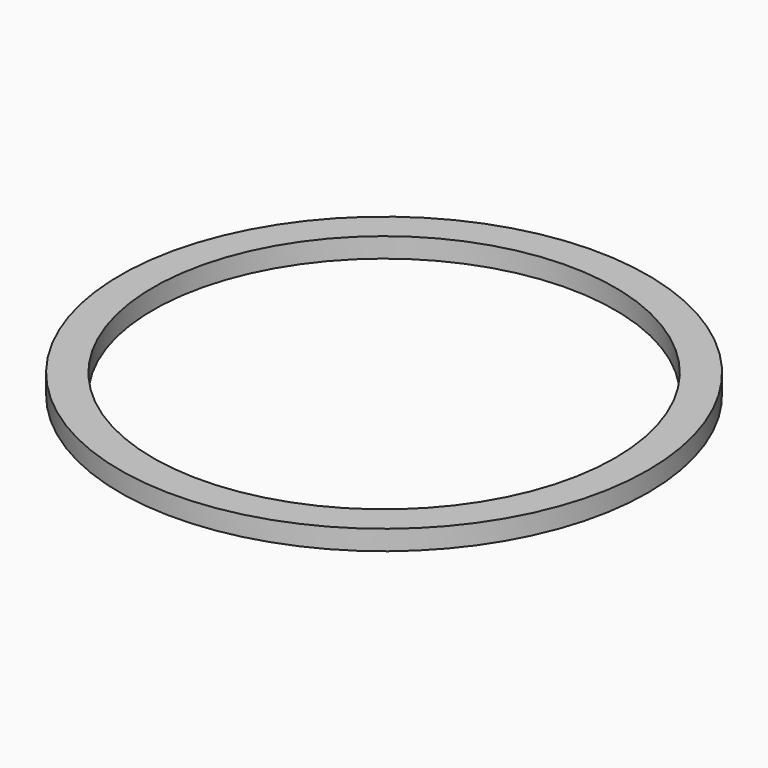
from build123d import *

# Parameters (mm, degrees)
CYLINDER071_R     = 21
CYLINDER071_DEPTH = 2
CYLINDER070_R     = 24
CYLINDER070_DEPTH = 1.8


with BuildPart() as cylinder071:
    # Cylinder071 → Cylinder071 (new body)
    with BuildSketch(Plane.XY.offset(20)):
        Circle(CYLINDER071_R)
    extrude(amount=CYLINDER071_DEPTH)


with BuildPart() as rim_support:
    # Cylinder070 → Cylinder070 (new body)
    with BuildSketch(Plane.XY.offset(20)):
        Circle(CYLINDER070_R)
    extrude(amount=CYLINDER070_DEPTH)

    # Cut020: cut Cylinder071
    add(cylinder071.part, mode=Mode.SUBTRACT)


with BuildPart() as rim_support_1:
    # Cut020 placement: moved
    add(rim_support.part.moved(Location((0, 0, 0.2))))


solid = rim_support_1.part
